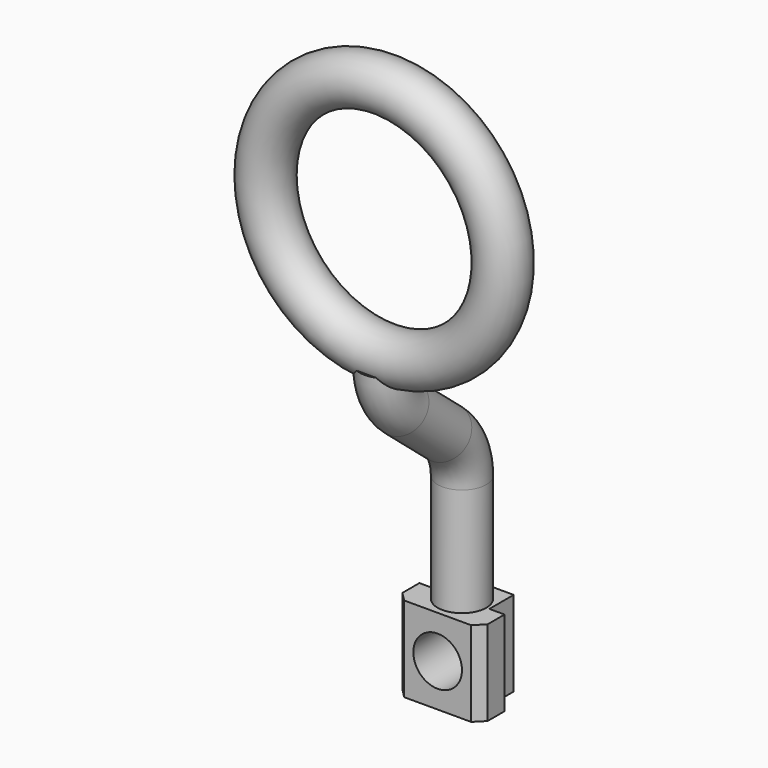
from build123d import *

# Parameters (mm, degrees)
F1_R     = 8
F7_DEPTH = 28
F8_R     = 8
F9_DEPTH = 25
F11_R    = 8


with BuildPart() as f3:
    # F1 (on Top) → F3 (revolve)
    with BuildSketch(Plane.XY):
        with Locations((-39, 0)):
            Circle(F1_R)
    revolve(axis=Axis((0, -30, 0), (0, -1, 0)))


with BuildPart() as f7:
    # F6 (on offset) → F7 (new body)
    with BuildSketch(Plane.XY.offset(-151)):
        Polygon((-11, 22), (0, 22), (11, 22), (14, 25), (14, 32), (9, 32), (9, 42), (0, 42), (-9, 42), (-9, 32), (-14, 32), (-14, 25), align=None)
    extrude(amount=F7_DEPTH)

    # F8 (on face) → F9 (cut)
    with BuildSketch(Plane(origin=(0, 42, 0), x_dir=(-1, 0, 0), z_dir=(0, 1, 0))):
        with Locations((0, -137)):
            Circle(F8_R)
    extrude(amount=-F9_DEPTH, mode=Mode.SUBTRACT)


with BuildPart() as f12:
    # F12: sweep along a path in F10
    with BuildLine(Plane.YZ) as f12_path:
        Line((32, -123), (32, -87.369763))
        ThreePointArc((32, -87.369763), (30.111001, -78.884974), (24.800835, -72.00296))
        Line((24.800835, -72.00296), (7.199165, -57.340439))
        ThreePointArc((7.199165, -57.340439), (1.888999, -50.458426), (0, -41.973637))
    # F11 (on face) → F12 (sweep)
    with BuildSketch(Plane.XY.offset(-123)):
        with Locations((0, 32)):
            Circle(F11_R)
    sweep(path=f12_path.line)


solid = Compound([f3.part, f7.part, f12.part])
